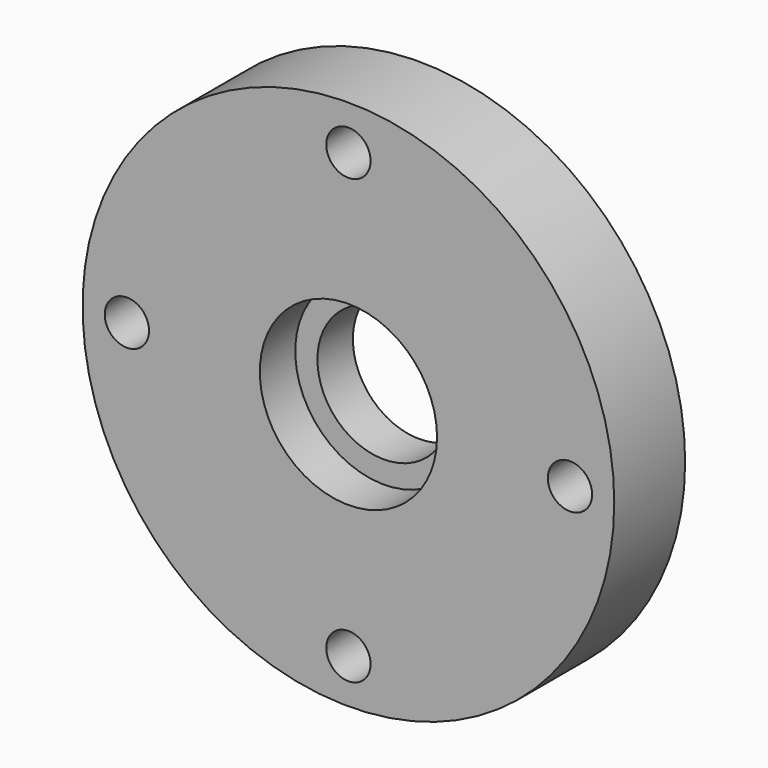
from build123d import *

# Parameters (mm, degrees)
F0_R           = 38.1
F0_R_2         = 9.525
F1_DEPTH       = 12.7
F2_R           = 12.7
F2_R_2         = 9.525
F3_DEPTH       = 6.35
F5_D           = 3.175
F5_CBORE_D     = 6.35
F5_CBORE_DEPTH = 6.35
F6_R           = 23.8125
F6_R_2         = 22.225
F7_DEPTH       = 1.905


with BuildPart() as f1:
    # F0 (on Front) → F1 (new body)
    with BuildSketch(Plane.XZ):
        Circle(F0_R)
        Circle(F0_R_2, mode=Mode.SUBTRACT)
    extrude(amount=F1_DEPTH)

    # F2 (on face) → F3 (cut)
    with BuildSketch(Plane.XZ.offset(12.7)):
        Circle(F2_R)
        Circle(F2_R_2, mode=Mode.SUBTRACT)
    extrude(amount=-F3_DEPTH, mode=Mode.SUBTRACT)

    # F5 (through all)
    with Locations(Plane.XZ.offset(12.7)):
        with Locations((0, 31.75), (31.75, 0), (0, -31.75), (-31.75, 0)):
            CounterBoreHole(F5_D / 2, F5_CBORE_D / 2, F5_CBORE_DEPTH)

    # F6 (on face) → F7 (cut)
    with BuildSketch(Plane(origin=(0, 0, 0), x_dir=(-1, 0, 0), z_dir=(0, 1, 0))):
        Circle(F6_R)
        Circle(F6_R_2, mode=Mode.SUBTRACT)
    extrude(amount=-F7_DEPTH, mode=Mode.SUBTRACT)


solid = f1.part
